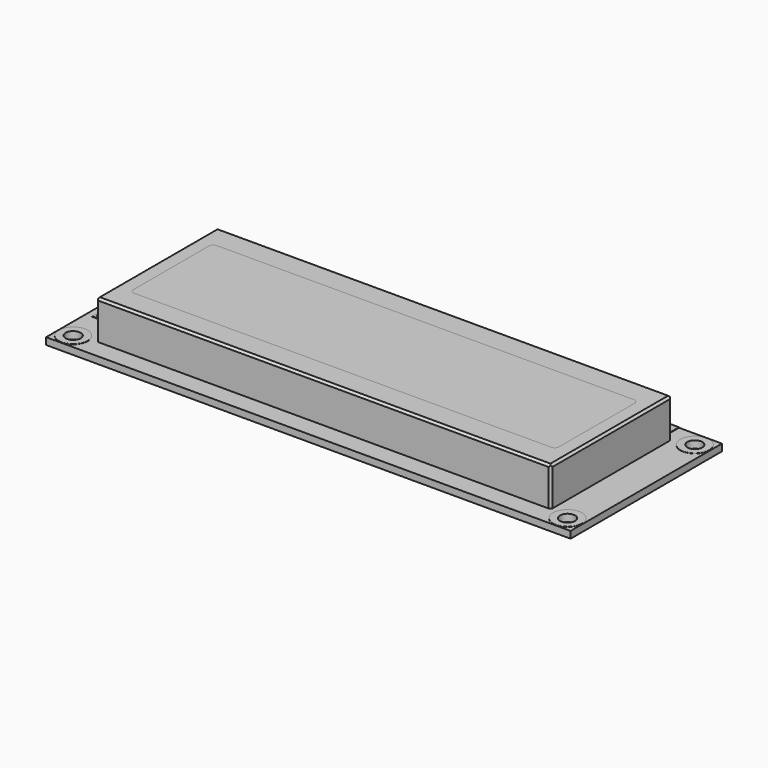
from build123d import *

# Parameters (mm, degrees)
SKETCH_W          = 122
SKETCH_H          = 44
SKETCH_R          = 0.55
SKETCH_R_2        = 1.75
PAD_DEPTH         = 1.6
BOX002_W          = 99
BOX002_H          = 24
BOX002_DEPTH      = 2
FILLET004_R       = 1
FILLET005_R       = 1
FILLET006_R       = 1
FILLET007_R       = 1
BOX001_W          = 99
BOX001_H          = 24
BOX001_DEPTH      = 2
FILLET_R          = 1
FILLET001_R       = 1
FILLET002_R       = 1
FILLET003_R       = 1
BOX_W             = 105.8
BOX_H             = 35.2
BOX_DEPTH         = 9
CHAMFER_SIZE      = 0.5
CHAMFER001_SIZE   = 0.5
CHAMFER002_SIZE   = 0.5
CHAMFER003_SIZE   = 0.5
CHAMFER004_SIZE   = 0.5
CHAMFER005_SIZE   = 0.5
CHAMFER006_SIZE   = 0.5
CHAMFER007_SIZE   = 0.5
CYLINDER001_R     = 1.75
CYLINDER001_DEPTH = 1.7
CYLINDER_R        = 3.38
CYLINDER_DEPTH    = 1.7
CYLINDER003_R     = 1.75
CYLINDER003_DEPTH = 1.7
CYLINDER002_R     = 3.38
CYLINDER002_DEPTH = 1.7
CYLINDER005_R     = 1.75
CYLINDER005_DEPTH = 1.7
CYLINDER004_R     = 3.38
CYLINDER004_DEPTH = 1.7
CYLINDER007_R     = 1.75
CYLINDER007_DEPTH = 1.7
CYLINDER006_R     = 3.38
CYLINDER006_DEPTH = 1.7
CYLINDER010_R     = 1
CYLINDER010_DEPTH = 0.1
BOX003_W          = 2
BOX003_H          = 2.5
BOX003_DEPTH      = 0.1
CYLINDER009_R     = 0.55
CYLINDER009_DEPTH = 0.1
CYLINDER008_R     = 1
CYLINDER008_DEPTH = 0.1
CYLINDER013_R     = 1
CYLINDER013_DEPTH = 0.1
BOX004_W          = 2
BOX004_H          = 2.5
BOX004_DEPTH      = 0.1
CYLINDER012_R     = 0.55
CYLINDER012_DEPTH = 0.1
CYLINDER011_R     = 1
CYLINDER011_DEPTH = 0.1
CYLINDER016_R     = 1
CYLINDER016_DEPTH = 0.1
BOX005_W          = 2
BOX005_H          = 2.5
BOX005_DEPTH      = 0.1
CYLINDER015_R     = 0.55
CYLINDER015_DEPTH = 0.1
CYLINDER014_R     = 1
CYLINDER014_DEPTH = 0.1
CYLINDER019_R     = 1
CYLINDER019_DEPTH = 0.1
BOX006_W          = 2
BOX006_H          = 2.5
BOX006_DEPTH      = 0.1
CYLINDER018_R     = 0.55
CYLINDER018_DEPTH = 0.1
CYLINDER017_R     = 1
CYLINDER017_DEPTH = 0.1
CYLINDER022_R     = 1
CYLINDER022_DEPTH = 0.1
BOX007_W          = 2
BOX007_H          = 2.5
BOX007_DEPTH      = 0.1
CYLINDER021_R     = 0.55
CYLINDER021_DEPTH = 0.1
CYLINDER020_R     = 1
CYLINDER020_DEPTH = 0.1
CYLINDER025_R     = 1
CYLINDER025_DEPTH = 0.1
BOX008_W          = 2
BOX008_H          = 2.5
BOX008_DEPTH      = 0.1
CYLINDER024_R     = 0.55
CYLINDER024_DEPTH = 0.1
CYLINDER023_R     = 1
CYLINDER023_DEPTH = 0.1
CYLINDER028_R     = 1
CYLINDER028_DEPTH = 0.1
BOX009_W          = 2
BOX009_H          = 2.5
BOX009_DEPTH      = 0.1
CYLINDER027_R     = 0.55
CYLINDER027_DEPTH = 0.1
CYLINDER026_R     = 1
CYLINDER026_DEPTH = 0.1
CYLINDER031_R     = 1
CYLINDER031_DEPTH = 0.1
BOX010_W          = 2
BOX010_H          = 2.5
BOX010_DEPTH      = 0.1
CYLINDER030_R     = 0.55
CYLINDER030_DEPTH = 0.1
CYLINDER029_R     = 1
CYLINDER029_DEPTH = 0.1
CYLINDER034_R     = 1
CYLINDER034_DEPTH = 0.1
BOX011_W          = 2
BOX011_H          = 2.5
BOX011_DEPTH      = 0.1
CYLINDER033_R     = 0.55
CYLINDER033_DEPTH = 0.1
CYLINDER032_R     = 1
CYLINDER032_DEPTH = 0.1
CYLINDER037_R     = 1
CYLINDER037_DEPTH = 0.1
BOX012_W          = 2
BOX012_H          = 2.5
BOX012_DEPTH      = 0.1
CYLINDER036_R     = 0.55
CYLINDER036_DEPTH = 0.1
CYLINDER035_R     = 1
CYLINDER035_DEPTH = 0.1
CYLINDER040_R     = 1
CYLINDER040_DEPTH = 0.1
BOX013_W          = 2
BOX013_H          = 2.5
BOX013_DEPTH      = 0.1
CYLINDER039_R     = 0.55
CYLINDER039_DEPTH = 0.1
CYLINDER038_R     = 1
CYLINDER038_DEPTH = 0.1
CYLINDER043_R     = 1
CYLINDER043_DEPTH = 0.1
BOX014_W          = 2
BOX014_H          = 2.5
BOX014_DEPTH      = 0.1
CYLINDER042_R     = 0.55
CYLINDER042_DEPTH = 0.1
CYLINDER041_R     = 1
CYLINDER041_DEPTH = 0.1
CYLINDER046_R     = 1
CYLINDER046_DEPTH = 0.1
BOX015_W          = 2
BOX015_H          = 2.5
BOX015_DEPTH      = 0.1
CYLINDER045_R     = 0.55
CYLINDER045_DEPTH = 0.1
CYLINDER044_R     = 1
CYLINDER044_DEPTH = 0.1
CYLINDER049_R     = 1
CYLINDER049_DEPTH = 0.1
BOX016_W          = 2
BOX016_H          = 2.5
BOX016_DEPTH      = 0.1
CYLINDER048_R     = 0.55
CYLINDER048_DEPTH = 0.1
CYLINDER047_R     = 1
CYLINDER047_DEPTH = 0.1
CYLINDER052_R     = 1
CYLINDER052_DEPTH = 0.1
BOX017_W          = 2
BOX017_H          = 2.5
BOX017_DEPTH      = 0.1
CYLINDER051_R     = 0.55
CYLINDER051_DEPTH = 0.1
CYLINDER050_R     = 1
CYLINDER050_DEPTH = 0.1
CYLINDER055_R     = 1
CYLINDER055_DEPTH = 0.1
BOX018_W          = 2
BOX018_H          = 2.5
BOX018_DEPTH      = 0.1
CYLINDER054_R     = 0.55
CYLINDER054_DEPTH = 0.1
CYLINDER053_R     = 1
CYLINDER053_DEPTH = 0.1
CYLINDER056_R     = 0.55
CYLINDER056_DEPTH = 0.1
BOX019_W          = 2
BOX019_H          = 2
BOX019_DEPTH      = 0.1
CYLINDER057_R     = 0.55
CYLINDER057_DEPTH = 0.1
BOX020_W          = 2
BOX020_H          = 2
BOX020_DEPTH      = 0.1
CYLINDER058_R     = 0.55
CYLINDER058_DEPTH = 0.1
BOX021_W          = 2
BOX021_H          = 2
BOX021_DEPTH      = 0.1
CYLINDER059_R     = 0.55
CYLINDER059_DEPTH = 0.1
BOX022_W          = 2
BOX022_H          = 2
BOX022_DEPTH      = 0.1
BOX023_W          = 95
BOX023_H          = 2
BOX023_DEPTH      = 4.6
BOX024_W          = 95
BOX024_H          = 2
BOX024_DEPTH      = 4.6


with BuildPart() as body:
    # Sketch → Pad (new body)
    with BuildSketch(Plane.XY):
        with Locations((-17, -19.5)):
            Rectangle(SKETCH_W, SKETCH_H)
        with Locations((-75.5, -14)):
            Circle(SKETCH_R, mode=Mode.SUBTRACT)
        with Locations((-75.5, -18)):
            Circle(SKETCH_R, mode=Mode.SUBTRACT)
        with Locations((-75.5, -25)):
            Circle(SKETCH_R, mode=Mode.SUBTRACT)
        with Locations((-75.5, -29)):
            Circle(SKETCH_R, mode=Mode.SUBTRACT)
        with Locations((-5.08, 0)):
            Circle(SKETCH_R, mode=Mode.SUBTRACT)
        with Locations((-2.54, 0)):
            Circle(SKETCH_R, mode=Mode.SUBTRACT)
        Circle(SKETCH_R, mode=Mode.SUBTRACT)
        with Locations((2.54, 0)):
            Circle(SKETCH_R, mode=Mode.SUBTRACT)
        with Locations((12.7, 0)):
            Circle(SKETCH_R, mode=Mode.SUBTRACT)
        with Locations((5.08, 0)):
            Circle(SKETCH_R, mode=Mode.SUBTRACT)
        with Locations((7.62, 0)):
            Circle(SKETCH_R, mode=Mode.SUBTRACT)
        with Locations((15.24, 0)):
            Circle(SKETCH_R, mode=Mode.SUBTRACT)
        with Locations((17.78, 0)):
            Circle(SKETCH_R, mode=Mode.SUBTRACT)
        with Locations((10.16, 0)):
            Circle(SKETCH_R, mode=Mode.SUBTRACT)
        with Locations((20.32, 0)):
            Circle(SKETCH_R, mode=Mode.SUBTRACT)
        with Locations((22.86, 0)):
            Circle(SKETCH_R, mode=Mode.SUBTRACT)
        with Locations((25.4, 0)):
            Circle(SKETCH_R, mode=Mode.SUBTRACT)
        with Locations((30.48, 0)):
            Circle(SKETCH_R, mode=Mode.SUBTRACT)
        with Locations((33.02, 0)):
            Circle(SKETCH_R, mode=Mode.SUBTRACT)
        with Locations((27.94, 0)):
            Circle(SKETCH_R, mode=Mode.SUBTRACT)
        with Locations((-74.5, -1)):
            Circle(SKETCH_R_2, mode=Mode.SUBTRACT)
        with Locations((-74.5, -38)):
            Circle(SKETCH_R_2, mode=Mode.SUBTRACT)
        with Locations((40.5, -38)):
            Circle(SKETCH_R_2, mode=Mode.SUBTRACT)
        with Locations((40.5, -1)):
            Circle(SKETCH_R_2, mode=Mode.SUBTRACT)
    extrude(amount=PAD_DEPTH)


with BuildPart() as body_1:
    # Body placement: moved
    add(body.part.moved(Location((0, 0, 4.6))))


with BuildPart() as fillet007:
    # Box002 → Box002 (new body)
    with BuildSketch(Plane(origin=(-66.5, -31.5, 8.6), x_dir=(1, 0, 0), z_dir=(0, 0, 1))):
        with Locations((49.5, 12)):
            Rectangle(BOX002_W, BOX002_H)
    extrude(amount=BOX002_DEPTH)

    # Fillet004
    fillet004_edges = [fillet007.edges().sort_by_distance(p)[0] for p in [
        (-66.5, -7.5, 9.6),
    ]]
    fillet(fillet004_edges, radius=FILLET004_R)

    # Fillet005
    fillet005_edges = [fillet007.edges().sort_by_distance(p)[0] for p in [
        (-66.5, -31.5, 9.6),
    ]]
    fillet(fillet005_edges, radius=FILLET005_R)

    # Fillet006
    fillet006_edges = [fillet007.edges().sort_by_distance(p)[0] for p in [
        (32.5, -31.5, 9.6),
    ]]
    fillet(fillet006_edges, radius=FILLET006_R)


with BuildPart() as fillet007_1:
    # Fillet006 placement: moved
    add(fillet007.part.moved(Location((0, 0, 4))))

    # Fillet007
    fillet007_edges = [fillet007_1.edges().sort_by_distance(p)[0] for p in [
        (32.5, -7.5, 13.6),
    ]]
    fillet(fillet007_edges, radius=FILLET007_R)


with BuildPart() as fillet007_2:
    # Fillet007 placement: moved
    add(fillet007_1.part.moved(Location((0, 0, 0.6))))


with BuildPart() as fillet003:
    # Box001 → Box001 (new body)
    with BuildSketch(Plane(origin=(-66.5, -31.5, 8.6), x_dir=(1, 0, 0), z_dir=(0, 0, 1))):
        with Locations((49.5, 12)):
            Rectangle(BOX001_W, BOX001_H)
    extrude(amount=BOX001_DEPTH)

    # Fillet
    fillet_edges = [fillet003.edges().sort_by_distance(p)[0] for p in [
        (-66.5, -7.5, 9.6),
    ]]
    fillet(fillet_edges, radius=FILLET_R)

    # Fillet001
    fillet001_edges = [fillet003.edges().sort_by_distance(p)[0] for p in [
        (-66.5, -31.5, 9.6),
    ]]
    fillet(fillet001_edges, radius=FILLET001_R)

    # Fillet002
    fillet002_edges = [fillet003.edges().sort_by_distance(p)[0] for p in [
        (32.5, -31.5, 9.6),
    ]]
    fillet(fillet002_edges, radius=FILLET002_R)


with BuildPart() as fillet003_1:
    # Fillet002 placement: moved
    add(fillet003.part.moved(Location((0, 0, 4))))

    # Fillet003
    fillet003_edges = [fillet003_1.edges().sort_by_distance(p)[0] for p in [
        (32.5, -7.5, 13.6),
    ]]
    fillet(fillet003_edges, radius=FILLET003_R)


with BuildPart() as fillet003_2:
    # Fillet003 placement: moved
    add(fillet003_1.part.moved(Location((0, 0, -4))))


with BuildPart() as cut:
    # Box → Box (new body)
    with BuildSketch(Plane(origin=(-69.9, -37.1, 1.6), x_dir=(1, 0, 0), z_dir=(0, 0, 1))):
        with Locations((52.9, 17.6)):
            Rectangle(BOX_W, BOX_H)
    extrude(amount=BOX_DEPTH)

    # Chamfer
    chamfer_edges = [cut.edges().sort_by_distance(p)[0] for p in [
        (-69.9, -1.9, 6.1),
    ]]
    chamfer(chamfer_edges, length=CHAMFER_SIZE)

    # Chamfer001
    chamfer001_edges = [cut.edges().sort_by_distance(p)[0] for p in [
        (-69.9, -19.75, 10.6),
    ]]
    chamfer(chamfer001_edges, length=CHAMFER001_SIZE)

    # Chamfer002
    chamfer002_edges = [cut.edges().sort_by_distance(p)[0] for p in [
        (-16.75, -1.9, 10.6),
    ]]
    chamfer(chamfer002_edges, length=CHAMFER002_SIZE)

    # Chamfer003
    chamfer003_edges = [cut.edges().sort_by_distance(p)[0] for p in [
        (-69.9, -37.1, 5.85),
    ]]
    chamfer(chamfer003_edges, length=CHAMFER003_SIZE)

    # Chamfer004
    chamfer004_edges = [cut.edges().sort_by_distance(p)[0] for p in [
        (-16.75, -37.1, 10.6),
    ]]
    chamfer(chamfer004_edges, length=CHAMFER004_SIZE)

    # Chamfer005
    chamfer005_edges = [cut.edges().sort_by_distance(p)[0] for p in [
        (35.9, -37.1, 5.85),
    ]]
    chamfer(chamfer005_edges, length=CHAMFER005_SIZE)

    # Chamfer006
    chamfer006_edges = [cut.edges().sort_by_distance(p)[0] for p in [
        (35.9, -19.5, 10.6),
    ]]
    chamfer(chamfer006_edges, length=CHAMFER006_SIZE)

    # Chamfer007
    chamfer007_edges = [cut.edges().sort_by_distance(p)[0] for p in [
        (35.9, -1.9, 5.85),
    ]]
    chamfer(chamfer007_edges, length=CHAMFER007_SIZE)

    # Cut: cut Fillet003
    add(fillet003_2.part, mode=Mode.SUBTRACT)


with BuildPart() as cut_1:
    # Cut placement: moved
    add(cut.part.moved(Location((0, 0, 4.6))))


with BuildPart() as cylinder001:
    # Cylinder001 → Cylinder001 (new body)
    with BuildSketch(Plane(origin=(39, 0, -0.05), x_dir=(1, 0, 0), z_dir=(0, 0, 1))):
        Circle(CYLINDER001_R)
    extrude(amount=CYLINDER001_DEPTH)


with BuildPart() as cut001:
    # Cylinder → Cylinder (new body)
    with BuildSketch(Plane(origin=(39, 0, -0.05), x_dir=(1, 0, 0), z_dir=(0, 0, 1))):
        Circle(CYLINDER_R)
    extrude(amount=CYLINDER_DEPTH)

    # Cut001: cut Cylinder001
    add(cylinder001.part, mode=Mode.SUBTRACT)


with BuildPart() as cut001_1:
    # Cut001 placement: moved
    add(cut001.part.moved(Location((1.5, -1, 4.6))))


with BuildPart() as cylinder003:
    # Cylinder003 → Cylinder003 (new body)
    with BuildSketch(Plane(origin=(39, 0, -0.05), x_dir=(1, 0, 0), z_dir=(0, 0, 1))):
        Circle(CYLINDER003_R)
    extrude(amount=CYLINDER003_DEPTH)


with BuildPart() as cut002:
    # Cylinder002 → Cylinder002 (new body)
    with BuildSketch(Plane(origin=(39, 0, -0.05), x_dir=(1, 0, 0), z_dir=(0, 0, 1))):
        Circle(CYLINDER002_R)
    extrude(amount=CYLINDER002_DEPTH)

    # Cut002: cut Cylinder003
    add(cylinder003.part, mode=Mode.SUBTRACT)


with BuildPart() as cut002_1:
    # Cut002 placement: moved
    add(cut002.part.moved(Location((1.5, -38, 4.6))))


with BuildPart() as cylinder005:
    # Cylinder005 → Cylinder005 (new body)
    with BuildSketch(Plane(origin=(39, 0, -0.05), x_dir=(1, 0, 0), z_dir=(0, 0, 1))):
        Circle(CYLINDER005_R)
    extrude(amount=CYLINDER005_DEPTH)


with BuildPart() as cut003:
    # Cylinder004 → Cylinder004 (new body)
    with BuildSketch(Plane(origin=(39, 0, -0.05), x_dir=(1, 0, 0), z_dir=(0, 0, 1))):
        Circle(CYLINDER004_R)
    extrude(amount=CYLINDER004_DEPTH)

    # Cut003: cut Cylinder005
    add(cylinder005.part, mode=Mode.SUBTRACT)


with BuildPart() as cut003_1:
    # Cut003 placement: moved
    add(cut003.part.moved(Location((-113.5, -38, 4.6))))


with BuildPart() as cylinder007:
    # Cylinder007 → Cylinder007 (new body)
    with BuildSketch(Plane(origin=(39, 0, -0.05), x_dir=(1, 0, 0), z_dir=(0, 0, 1))):
        Circle(CYLINDER007_R)
    extrude(amount=CYLINDER007_DEPTH)


with BuildPart() as cut004:
    # Cylinder006 → Cylinder006 (new body)
    with BuildSketch(Plane(origin=(39, 0, -0.05), x_dir=(1, 0, 0), z_dir=(0, 0, 1))):
        Circle(CYLINDER006_R)
    extrude(amount=CYLINDER006_DEPTH)

    # Cut004: cut Cylinder007
    add(cylinder007.part, mode=Mode.SUBTRACT)


with BuildPart() as cut004_1:
    # Cut004 placement: moved
    add(cut004.part.moved(Location((-113.5, -1, 4.6))))


with BuildPart() as cylinder010:
    # Cylinder010 → Cylinder010 (new body)
    with BuildSketch(Plane.XY.offset(1.6)):
        Circle(CYLINDER010_R)
    extrude(amount=CYLINDER010_DEPTH)


with BuildPart() as cut006:
    # Box003 → Box003 (new body)
    with BuildSketch(Plane(origin=(-1, 0, 1.6), x_dir=(1, 0, 0), z_dir=(0, 0, 1))):
        with Locations((1, 1.25)):
            Rectangle(BOX003_W, BOX003_H)
    extrude(amount=BOX003_DEPTH)

    # Cut006: cut Cylinder010
    add(cylinder010.part, mode=Mode.SUBTRACT)


with BuildPart() as cylinder009:
    # Cylinder009 → Cylinder009 (new body)
    with BuildSketch(Plane.XY.offset(1.6)):
        Circle(CYLINDER009_R)
    extrude(amount=CYLINDER009_DEPTH)


with BuildPart() as fusion016:
    # Cylinder008 → Cylinder008 (new body)
    with BuildSketch(Plane.XY.offset(1.6)):
        Circle(CYLINDER008_R)
    extrude(amount=CYLINDER008_DEPTH)

    # Cut005: cut Cylinder009
    add(cylinder009.part, mode=Mode.SUBTRACT)

    # Fusion: union Cut006
    add(cut006.part)


with BuildPart() as fusion016_1:
    # Fusion placement: moved
    add(fusion016.part.moved(Location((0, 0, 4.6))))


with BuildPart() as cylinder013:
    # Cylinder013 → Cylinder013 (new body)
    with BuildSketch(Plane.XY.offset(1.6)):
        Circle(CYLINDER013_R)
    extrude(amount=CYLINDER013_DEPTH)


with BuildPart() as cut008:
    # Box004 → Box004 (new body)
    with BuildSketch(Plane(origin=(-1, 0, 1.6), x_dir=(1, 0, 0), z_dir=(0, 0, 1))):
        with Locations((1, 1.25)):
            Rectangle(BOX004_W, BOX004_H)
    extrude(amount=BOX004_DEPTH)

    # Cut008: cut Cylinder013
    add(cylinder013.part, mode=Mode.SUBTRACT)


with BuildPart() as cylinder012:
    # Cylinder012 → Cylinder012 (new body)
    with BuildSketch(Plane.XY.offset(1.6)):
        Circle(CYLINDER012_R)
    extrude(amount=CYLINDER012_DEPTH)


with BuildPart() as fusion017:
    # Cylinder011 → Cylinder011 (new body)
    with BuildSketch(Plane.XY.offset(1.6)):
        Circle(CYLINDER011_R)
    extrude(amount=CYLINDER011_DEPTH)

    # Cut007: cut Cylinder012
    add(cylinder012.part, mode=Mode.SUBTRACT)

    # Fusion001: union Cut008
    add(cut008.part)


with BuildPart() as fusion017_1:
    # Fusion001 placement: moved
    add(fusion017.part.moved(Location((2.54, 0, 4.6))))


with BuildPart() as cylinder016:
    # Cylinder016 → Cylinder016 (new body)
    with BuildSketch(Plane.XY.offset(1.6)):
        Circle(CYLINDER016_R)
    extrude(amount=CYLINDER016_DEPTH)


with BuildPart() as cut010:
    # Box005 → Box005 (new body)
    with BuildSketch(Plane(origin=(-1, 0, 1.6), x_dir=(1, 0, 0), z_dir=(0, 0, 1))):
        with Locations((1, 1.25)):
            Rectangle(BOX005_W, BOX005_H)
    extrude(amount=BOX005_DEPTH)

    # Cut010: cut Cylinder016
    add(cylinder016.part, mode=Mode.SUBTRACT)


with BuildPart() as cylinder015:
    # Cylinder015 → Cylinder015 (new body)
    with BuildSketch(Plane.XY.offset(1.6)):
        Circle(CYLINDER015_R)
    extrude(amount=CYLINDER015_DEPTH)


with BuildPart() as fusion018:
    # Cylinder014 → Cylinder014 (new body)
    with BuildSketch(Plane.XY.offset(1.6)):
        Circle(CYLINDER014_R)
    extrude(amount=CYLINDER014_DEPTH)

    # Cut009: cut Cylinder015
    add(cylinder015.part, mode=Mode.SUBTRACT)

    # Fusion002: union Cut010
    add(cut010.part)


with BuildPart() as fusion018_1:
    # Fusion002 placement: moved
    add(fusion018.part.moved(Location((5.08, 0, 4.6))))


with BuildPart() as cylinder019:
    # Cylinder019 → Cylinder019 (new body)
    with BuildSketch(Plane.XY.offset(1.6)):
        Circle(CYLINDER019_R)
    extrude(amount=CYLINDER019_DEPTH)


with BuildPart() as cut012:
    # Box006 → Box006 (new body)
    with BuildSketch(Plane(origin=(-1, 0, 1.6), x_dir=(1, 0, 0), z_dir=(0, 0, 1))):
        with Locations((1, 1.25)):
            Rectangle(BOX006_W, BOX006_H)
    extrude(amount=BOX006_DEPTH)

    # Cut012: cut Cylinder019
    add(cylinder019.part, mode=Mode.SUBTRACT)


with BuildPart() as cylinder018:
    # Cylinder018 → Cylinder018 (new body)
    with BuildSketch(Plane.XY.offset(1.6)):
        Circle(CYLINDER018_R)
    extrude(amount=CYLINDER018_DEPTH)


with BuildPart() as fusion019:
    # Cylinder017 → Cylinder017 (new body)
    with BuildSketch(Plane.XY.offset(1.6)):
        Circle(CYLINDER017_R)
    extrude(amount=CYLINDER017_DEPTH)

    # Cut011: cut Cylinder018
    add(cylinder018.part, mode=Mode.SUBTRACT)

    # Fusion003: union Cut012
    add(cut012.part)


with BuildPart() as fusion019_1:
    # Fusion003 placement: moved
    add(fusion019.part.moved(Location((7.62, 0, 4.6))))


with BuildPart() as cylinder022:
    # Cylinder022 → Cylinder022 (new body)
    with BuildSketch(Plane.XY.offset(1.6)):
        Circle(CYLINDER022_R)
    extrude(amount=CYLINDER022_DEPTH)


with BuildPart() as cut014:
    # Box007 → Box007 (new body)
    with BuildSketch(Plane(origin=(-1, 0, 1.6), x_dir=(1, 0, 0), z_dir=(0, 0, 1))):
        with Locations((1, 1.25)):
            Rectangle(BOX007_W, BOX007_H)
    extrude(amount=BOX007_DEPTH)

    # Cut014: cut Cylinder022
    add(cylinder022.part, mode=Mode.SUBTRACT)


with BuildPart() as cylinder021:
    # Cylinder021 → Cylinder021 (new body)
    with BuildSketch(Plane.XY.offset(1.6)):
        Circle(CYLINDER021_R)
    extrude(amount=CYLINDER021_DEPTH)


with BuildPart() as fusion020:
    # Cylinder020 → Cylinder020 (new body)
    with BuildSketch(Plane.XY.offset(1.6)):
        Circle(CYLINDER020_R)
    extrude(amount=CYLINDER020_DEPTH)

    # Cut013: cut Cylinder021
    add(cylinder021.part, mode=Mode.SUBTRACT)

    # Fusion004: union Cut014
    add(cut014.part)


with BuildPart() as fusion020_1:
    # Fusion004 placement: moved
    add(fusion020.part.moved(Location((10.16, 0, 4.6))))


with BuildPart() as cylinder025:
    # Cylinder025 → Cylinder025 (new body)
    with BuildSketch(Plane.XY.offset(1.6)):
        Circle(CYLINDER025_R)
    extrude(amount=CYLINDER025_DEPTH)


with BuildPart() as cut016:
    # Box008 → Box008 (new body)
    with BuildSketch(Plane(origin=(-1, 0, 1.6), x_dir=(1, 0, 0), z_dir=(0, 0, 1))):
        with Locations((1, 1.25)):
            Rectangle(BOX008_W, BOX008_H)
    extrude(amount=BOX008_DEPTH)

    # Cut016: cut Cylinder025
    add(cylinder025.part, mode=Mode.SUBTRACT)


with BuildPart() as cylinder024:
    # Cylinder024 → Cylinder024 (new body)
    with BuildSketch(Plane.XY.offset(1.6)):
        Circle(CYLINDER024_R)
    extrude(amount=CYLINDER024_DEPTH)


with BuildPart() as fusion021:
    # Cylinder023 → Cylinder023 (new body)
    with BuildSketch(Plane.XY.offset(1.6)):
        Circle(CYLINDER023_R)
    extrude(amount=CYLINDER023_DEPTH)

    # Cut015: cut Cylinder024
    add(cylinder024.part, mode=Mode.SUBTRACT)

    # Fusion005: union Cut016
    add(cut016.part)


with BuildPart() as fusion021_1:
    # Fusion005 placement: moved
    add(fusion021.part.moved(Location((12.7, 0, 4.6))))


with BuildPart() as cylinder028:
    # Cylinder028 → Cylinder028 (new body)
    with BuildSketch(Plane.XY.offset(1.6)):
        Circle(CYLINDER028_R)
    extrude(amount=CYLINDER028_DEPTH)


with BuildPart() as cut018:
    # Box009 → Box009 (new body)
    with BuildSketch(Plane(origin=(-1, 0, 1.6), x_dir=(1, 0, 0), z_dir=(0, 0, 1))):
        with Locations((1, 1.25)):
            Rectangle(BOX009_W, BOX009_H)
    extrude(amount=BOX009_DEPTH)

    # Cut018: cut Cylinder028
    add(cylinder028.part, mode=Mode.SUBTRACT)


with BuildPart() as cylinder027:
    # Cylinder027 → Cylinder027 (new body)
    with BuildSketch(Plane.XY.offset(1.6)):
        Circle(CYLINDER027_R)
    extrude(amount=CYLINDER027_DEPTH)


with BuildPart() as fusion022:
    # Cylinder026 → Cylinder026 (new body)
    with BuildSketch(Plane.XY.offset(1.6)):
        Circle(CYLINDER026_R)
    extrude(amount=CYLINDER026_DEPTH)

    # Cut017: cut Cylinder027
    add(cylinder027.part, mode=Mode.SUBTRACT)

    # Fusion006: union Cut018
    add(cut018.part)


with BuildPart() as fusion022_1:
    # Fusion006 placement: moved
    add(fusion022.part.moved(Location((15.24, 0, 4.6))))


with BuildPart() as cylinder031:
    # Cylinder031 → Cylinder031 (new body)
    with BuildSketch(Plane.XY.offset(1.6)):
        Circle(CYLINDER031_R)
    extrude(amount=CYLINDER031_DEPTH)


with BuildPart() as cut020:
    # Box010 → Box010 (new body)
    with BuildSketch(Plane(origin=(-1, 0, 1.6), x_dir=(1, 0, 0), z_dir=(0, 0, 1))):
        with Locations((1, 1.25)):
            Rectangle(BOX010_W, BOX010_H)
    extrude(amount=BOX010_DEPTH)

    # Cut020: cut Cylinder031
    add(cylinder031.part, mode=Mode.SUBTRACT)


with BuildPart() as cylinder030:
    # Cylinder030 → Cylinder030 (new body)
    with BuildSketch(Plane.XY.offset(1.6)):
        Circle(CYLINDER030_R)
    extrude(amount=CYLINDER030_DEPTH)


with BuildPart() as fusion023:
    # Cylinder029 → Cylinder029 (new body)
    with BuildSketch(Plane.XY.offset(1.6)):
        Circle(CYLINDER029_R)
    extrude(amount=CYLINDER029_DEPTH)

    # Cut019: cut Cylinder030
    add(cylinder030.part, mode=Mode.SUBTRACT)

    # Fusion007: union Cut020
    add(cut020.part)


with BuildPart() as fusion023_1:
    # Fusion007 placement: moved
    add(fusion023.part.moved(Location((17.78, 0, 4.6))))


with BuildPart() as cylinder034:
    # Cylinder034 → Cylinder034 (new body)
    with BuildSketch(Plane.XY.offset(1.6)):
        Circle(CYLINDER034_R)
    extrude(amount=CYLINDER034_DEPTH)


with BuildPart() as cut022:
    # Box011 → Box011 (new body)
    with BuildSketch(Plane(origin=(-1, 0, 1.6), x_dir=(1, 0, 0), z_dir=(0, 0, 1))):
        with Locations((1, 1.25)):
            Rectangle(BOX011_W, BOX011_H)
    extrude(amount=BOX011_DEPTH)

    # Cut022: cut Cylinder034
    add(cylinder034.part, mode=Mode.SUBTRACT)


with BuildPart() as cylinder033:
    # Cylinder033 → Cylinder033 (new body)
    with BuildSketch(Plane.XY.offset(1.6)):
        Circle(CYLINDER033_R)
    extrude(amount=CYLINDER033_DEPTH)


with BuildPart() as fusion024:
    # Cylinder032 → Cylinder032 (new body)
    with BuildSketch(Plane.XY.offset(1.6)):
        Circle(CYLINDER032_R)
    extrude(amount=CYLINDER032_DEPTH)

    # Cut021: cut Cylinder033
    add(cylinder033.part, mode=Mode.SUBTRACT)

    # Fusion008: union Cut022
    add(cut022.part)


with BuildPart() as fusion024_1:
    # Fusion008 placement: moved
    add(fusion024.part.moved(Location((20.32, 0, 4.6))))


with BuildPart() as cylinder037:
    # Cylinder037 → Cylinder037 (new body)
    with BuildSketch(Plane.XY.offset(1.6)):
        Circle(CYLINDER037_R)
    extrude(amount=CYLINDER037_DEPTH)


with BuildPart() as cut024:
    # Box012 → Box012 (new body)
    with BuildSketch(Plane(origin=(-1, 0, 1.6), x_dir=(1, 0, 0), z_dir=(0, 0, 1))):
        with Locations((1, 1.25)):
            Rectangle(BOX012_W, BOX012_H)
    extrude(amount=BOX012_DEPTH)

    # Cut024: cut Cylinder037
    add(cylinder037.part, mode=Mode.SUBTRACT)


with BuildPart() as cylinder036:
    # Cylinder036 → Cylinder036 (new body)
    with BuildSketch(Plane.XY.offset(1.6)):
        Circle(CYLINDER036_R)
    extrude(amount=CYLINDER036_DEPTH)


with BuildPart() as fusion025:
    # Cylinder035 → Cylinder035 (new body)
    with BuildSketch(Plane.XY.offset(1.6)):
        Circle(CYLINDER035_R)
    extrude(amount=CYLINDER035_DEPTH)

    # Cut023: cut Cylinder036
    add(cylinder036.part, mode=Mode.SUBTRACT)

    # Fusion009: union Cut024
    add(cut024.part)


with BuildPart() as fusion025_1:
    # Fusion009 placement: moved
    add(fusion025.part.moved(Location((22.86, 0, 4.6))))


with BuildPart() as cylinder040:
    # Cylinder040 → Cylinder040 (new body)
    with BuildSketch(Plane.XY.offset(1.6)):
        Circle(CYLINDER040_R)
    extrude(amount=CYLINDER040_DEPTH)


with BuildPart() as cut026:
    # Box013 → Box013 (new body)
    with BuildSketch(Plane(origin=(-1, 0, 1.6), x_dir=(1, 0, 0), z_dir=(0, 0, 1))):
        with Locations((1, 1.25)):
            Rectangle(BOX013_W, BOX013_H)
    extrude(amount=BOX013_DEPTH)

    # Cut026: cut Cylinder040
    add(cylinder040.part, mode=Mode.SUBTRACT)


with BuildPart() as cylinder039:
    # Cylinder039 → Cylinder039 (new body)
    with BuildSketch(Plane.XY.offset(1.6)):
        Circle(CYLINDER039_R)
    extrude(amount=CYLINDER039_DEPTH)


with BuildPart() as fusion026:
    # Cylinder038 → Cylinder038 (new body)
    with BuildSketch(Plane.XY.offset(1.6)):
        Circle(CYLINDER038_R)
    extrude(amount=CYLINDER038_DEPTH)

    # Cut025: cut Cylinder039
    add(cylinder039.part, mode=Mode.SUBTRACT)

    # Fusion010: union Cut026
    add(cut026.part)


with BuildPart() as fusion026_1:
    # Fusion010 placement: moved
    add(fusion026.part.moved(Location((25.4, 0, 4.6))))


with BuildPart() as cylinder043:
    # Cylinder043 → Cylinder043 (new body)
    with BuildSketch(Plane.XY.offset(1.6)):
        Circle(CYLINDER043_R)
    extrude(amount=CYLINDER043_DEPTH)


with BuildPart() as cut028:
    # Box014 → Box014 (new body)
    with BuildSketch(Plane(origin=(-1, 0, 1.6), x_dir=(1, 0, 0), z_dir=(0, 0, 1))):
        with Locations((1, 1.25)):
            Rectangle(BOX014_W, BOX014_H)
    extrude(amount=BOX014_DEPTH)

    # Cut028: cut Cylinder043
    add(cylinder043.part, mode=Mode.SUBTRACT)


with BuildPart() as cylinder042:
    # Cylinder042 → Cylinder042 (new body)
    with BuildSketch(Plane.XY.offset(1.6)):
        Circle(CYLINDER042_R)
    extrude(amount=CYLINDER042_DEPTH)


with BuildPart() as fusion027:
    # Cylinder041 → Cylinder041 (new body)
    with BuildSketch(Plane.XY.offset(1.6)):
        Circle(CYLINDER041_R)
    extrude(amount=CYLINDER041_DEPTH)

    # Cut027: cut Cylinder042
    add(cylinder042.part, mode=Mode.SUBTRACT)

    # Fusion011: union Cut028
    add(cut028.part)


with BuildPart() as fusion027_1:
    # Fusion011 placement: moved
    add(fusion027.part.moved(Location((27.94, 0, 4.6))))


with BuildPart() as cylinder046:
    # Cylinder046 → Cylinder046 (new body)
    with BuildSketch(Plane.XY.offset(1.6)):
        Circle(CYLINDER046_R)
    extrude(amount=CYLINDER046_DEPTH)


with BuildPart() as cut030:
    # Box015 → Box015 (new body)
    with BuildSketch(Plane(origin=(-1, 0, 1.6), x_dir=(1, 0, 0), z_dir=(0, 0, 1))):
        with Locations((1, 1.25)):
            Rectangle(BOX015_W, BOX015_H)
    extrude(amount=BOX015_DEPTH)

    # Cut030: cut Cylinder046
    add(cylinder046.part, mode=Mode.SUBTRACT)


with BuildPart() as cylinder045:
    # Cylinder045 → Cylinder045 (new body)
    with BuildSketch(Plane.XY.offset(1.6)):
        Circle(CYLINDER045_R)
    extrude(amount=CYLINDER045_DEPTH)


with BuildPart() as fusion028:
    # Cylinder044 → Cylinder044 (new body)
    with BuildSketch(Plane.XY.offset(1.6)):
        Circle(CYLINDER044_R)
    extrude(amount=CYLINDER044_DEPTH)

    # Cut029: cut Cylinder045
    add(cylinder045.part, mode=Mode.SUBTRACT)

    # Fusion012: union Cut030
    add(cut030.part)


with BuildPart() as fusion028_1:
    # Fusion012 placement: moved
    add(fusion028.part.moved(Location((30.48, 0, 4.6))))


with BuildPart() as cylinder049:
    # Cylinder049 → Cylinder049 (new body)
    with BuildSketch(Plane.XY.offset(1.6)):
        Circle(CYLINDER049_R)
    extrude(amount=CYLINDER049_DEPTH)


with BuildPart() as cut032:
    # Box016 → Box016 (new body)
    with BuildSketch(Plane(origin=(-1, 0, 1.6), x_dir=(1, 0, 0), z_dir=(0, 0, 1))):
        with Locations((1, 1.25)):
            Rectangle(BOX016_W, BOX016_H)
    extrude(amount=BOX016_DEPTH)

    # Cut032: cut Cylinder049
    add(cylinder049.part, mode=Mode.SUBTRACT)


with BuildPart() as cylinder048:
    # Cylinder048 → Cylinder048 (new body)
    with BuildSketch(Plane.XY.offset(1.6)):
        Circle(CYLINDER048_R)
    extrude(amount=CYLINDER048_DEPTH)


with BuildPart() as fusion029:
    # Cylinder047 → Cylinder047 (new body)
    with BuildSketch(Plane.XY.offset(1.6)):
        Circle(CYLINDER047_R)
    extrude(amount=CYLINDER047_DEPTH)

    # Cut031: cut Cylinder048
    add(cylinder048.part, mode=Mode.SUBTRACT)

    # Fusion013: union Cut032
    add(cut032.part)


with BuildPart() as fusion029_1:
    # Fusion013 placement: moved
    add(fusion029.part.moved(Location((33.02, 0, 4.6))))


with BuildPart() as cylinder052:
    # Cylinder052 → Cylinder052 (new body)
    with BuildSketch(Plane.XY.offset(1.6)):
        Circle(CYLINDER052_R)
    extrude(amount=CYLINDER052_DEPTH)


with BuildPart() as cut034:
    # Box017 → Box017 (new body)
    with BuildSketch(Plane(origin=(-1, 0, 1.6), x_dir=(1, 0, 0), z_dir=(0, 0, 1))):
        with Locations((1, 1.25)):
            Rectangle(BOX017_W, BOX017_H)
    extrude(amount=BOX017_DEPTH)

    # Cut034: cut Cylinder052
    add(cylinder052.part, mode=Mode.SUBTRACT)


with BuildPart() as cylinder051:
    # Cylinder051 → Cylinder051 (new body)
    with BuildSketch(Plane.XY.offset(1.6)):
        Circle(CYLINDER051_R)
    extrude(amount=CYLINDER051_DEPTH)


with BuildPart() as fusion030:
    # Cylinder050 → Cylinder050 (new body)
    with BuildSketch(Plane.XY.offset(1.6)):
        Circle(CYLINDER050_R)
    extrude(amount=CYLINDER050_DEPTH)

    # Cut033: cut Cylinder051
    add(cylinder051.part, mode=Mode.SUBTRACT)

    # Fusion014: union Cut034
    add(cut034.part)


with BuildPart() as fusion030_1:
    # Fusion014 placement: moved
    add(fusion030.part.moved(Location((-2.54, 0, 4.6))))


with BuildPart() as cylinder055:
    # Cylinder055 → Cylinder055 (new body)
    with BuildSketch(Plane.XY.offset(1.6)):
        Circle(CYLINDER055_R)
    extrude(amount=CYLINDER055_DEPTH)


with BuildPart() as cut036:
    # Box018 → Box018 (new body)
    with BuildSketch(Plane(origin=(-1, 0, 1.6), x_dir=(1, 0, 0), z_dir=(0, 0, 1))):
        with Locations((1, 1.25)):
            Rectangle(BOX018_W, BOX018_H)
    extrude(amount=BOX018_DEPTH)

    # Cut036: cut Cylinder055
    add(cylinder055.part, mode=Mode.SUBTRACT)


with BuildPart() as cylinder054:
    # Cylinder054 → Cylinder054 (new body)
    with BuildSketch(Plane.XY.offset(1.6)):
        Circle(CYLINDER054_R)
    extrude(amount=CYLINDER054_DEPTH)


with BuildPart() as fusion031:
    # Cylinder053 → Cylinder053 (new body)
    with BuildSketch(Plane.XY.offset(1.6)):
        Circle(CYLINDER053_R)
    extrude(amount=CYLINDER053_DEPTH)

    # Cut035: cut Cylinder054
    add(cylinder054.part, mode=Mode.SUBTRACT)

    # Fusion015: union Cut036
    add(cut036.part)


with BuildPart() as fusion031_1:
    # Fusion015 placement: moved
    add(fusion031.part.moved(Location((-5.08, 0, 4.6))))


with BuildPart() as cylinder056:
    # Cylinder056 → Cylinder056 (new body)
    with BuildSketch(Plane.XY.offset(1.6)):
        Circle(CYLINDER056_R)
    extrude(amount=CYLINDER056_DEPTH)


with BuildPart() as cut037:
    # Box019 → Box019 (new body)
    with BuildSketch(Plane(origin=(-1, -1, 1.6), x_dir=(1, 0, 0), z_dir=(0, 0, 1))):
        with Locations((1, 1)):
            Rectangle(BOX019_W, BOX019_H)
    extrude(amount=BOX019_DEPTH)

    # Cut037: cut Cylinder056
    add(cylinder056.part, mode=Mode.SUBTRACT)


with BuildPart() as cut037_1:
    # Cut037 placement: moved
    add(cut037.part.moved(Location((-75.5, -14, 4.6))))


with BuildPart() as cylinder057:
    # Cylinder057 → Cylinder057 (new body)
    with BuildSketch(Plane.XY.offset(1.6)):
        Circle(CYLINDER057_R)
    extrude(amount=CYLINDER057_DEPTH)


with BuildPart() as cut038:
    # Box020 → Box020 (new body)
    with BuildSketch(Plane(origin=(-1, -1, 1.6), x_dir=(1, 0, 0), z_dir=(0, 0, 1))):
        with Locations((1, 1)):
            Rectangle(BOX020_W, BOX020_H)
    extrude(amount=BOX020_DEPTH)

    # Cut038: cut Cylinder057
    add(cylinder057.part, mode=Mode.SUBTRACT)


with BuildPart() as cut038_1:
    # Cut038 placement: moved
    add(cut038.part.moved(Location((-75.5, -18, 4.6))))


with BuildPart() as cylinder058:
    # Cylinder058 → Cylinder058 (new body)
    with BuildSketch(Plane.XY.offset(1.6)):
        Circle(CYLINDER058_R)
    extrude(amount=CYLINDER058_DEPTH)


with BuildPart() as cut039:
    # Box021 → Box021 (new body)
    with BuildSketch(Plane(origin=(-1, -1, 1.6), x_dir=(1, 0, 0), z_dir=(0, 0, 1))):
        with Locations((1, 1)):
            Rectangle(BOX021_W, BOX021_H)
    extrude(amount=BOX021_DEPTH)

    # Cut039: cut Cylinder058
    add(cylinder058.part, mode=Mode.SUBTRACT)


with BuildPart() as cut039_1:
    # Cut039 placement: moved
    add(cut039.part.moved(Location((-75.5, -25, 4.6))))


with BuildPart() as cylinder059:
    # Cylinder059 → Cylinder059 (new body)
    with BuildSketch(Plane.XY.offset(1.6)):
        Circle(CYLINDER059_R)
    extrude(amount=CYLINDER059_DEPTH)


with BuildPart() as cut040:
    # Box022 → Box022 (new body)
    with BuildSketch(Plane(origin=(-1, -1, 1.6), x_dir=(1, 0, 0), z_dir=(0, 0, 1))):
        with Locations((1, 1)):
            Rectangle(BOX022_W, BOX022_H)
    extrude(amount=BOX022_DEPTH)

    # Cut040: cut Cylinder059
    add(cylinder059.part, mode=Mode.SUBTRACT)


with BuildPart() as cut040_1:
    # Cut040 placement: moved
    add(cut040.part.moved(Location((-75.5, -29, 4.6))))


with BuildPart() as kub023:
    # Box023 → Box023 (new body)
    with BuildSketch(Plane(origin=(-61, -6, 0), x_dir=(1, 0, 0), z_dir=(0, 0, 1))):
        with Locations((47.5, 1)):
            Rectangle(BOX023_W, BOX023_H)
    extrude(amount=BOX023_DEPTH)


with BuildPart() as kub024:
    # Box024 → Box024 (new body)
    with BuildSketch(Plane(origin=(-61, -34, 0), x_dir=(1, 0, 0), z_dir=(0, 0, 1))):
        with Locations((47.5, 1)):
            Rectangle(BOX024_W, BOX024_H)
    extrude(amount=BOX024_DEPTH)


solid = Compound([body_1.part, fillet007_2.part, cut_1.part, cut001_1.part, cut002_1.part, cut003_1.part, cut004_1.part, fusion016_1.part, fusion017_1.part, fusion018_1.part, fusion019_1.part, fusion020_1.part, fusion021_1.part, fusion022_1.part, fusion023_1.part, fusion024_1.part, fusion025_1.part, fusion026_1.part, fusion027_1.part, fusion028_1.part, fusion029_1.part, fusion030_1.part, fusion031_1.part, cut037_1.part, cut038_1.part, cut039_1.part, cut040_1.part, kub023.part, kub024.part])
